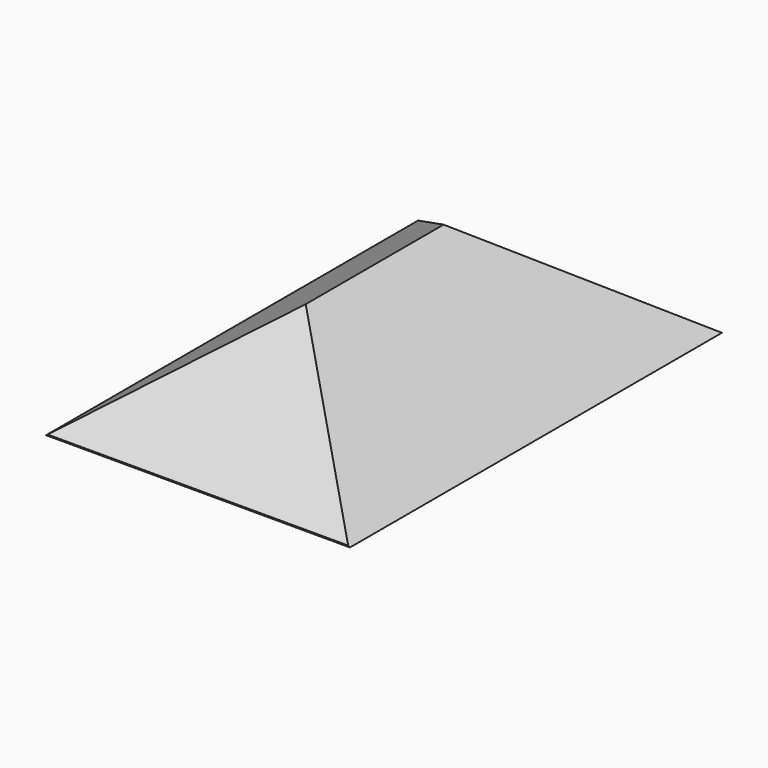
from build123d import *

# Parameters (mm, degrees)
F1_DEPTH = 221.488
F3_DEPTH = 383.794
F5_DEPTH = 385.064


with BuildPart() as f1:
    # F0 (on Front) → F1 (new body)
    with BuildSketch(Plane.XZ):
        Polygon((144.416556, 169.327736), (76.817557, 120.860532), (220.943704, 120.860532), align=None)
    extrude(amount=-F1_DEPTH)

    # F2 (on Right) → F3 (cut)
    with BuildSketch(Plane.YZ):
        Polygon((-13.188886, 115.596727), (0, 121.400371), (78.753106, 175.771385), (-13.188886, 175.771385), align=None)
    extrude(amount=F3_DEPTH, mode=Mode.SUBTRACT)

    # F4 (on Right) → F5 (cut)
    with BuildSketch(Plane.YZ):
        Polygon((141.06594, 176.382303), (223.233372, 118.956745), (241.255224, 92.687599), (241.255224, 179.131404), align=None)
    extrude(amount=F5_DEPTH, mode=Mode.SUBTRACT)


solid = f1.part
